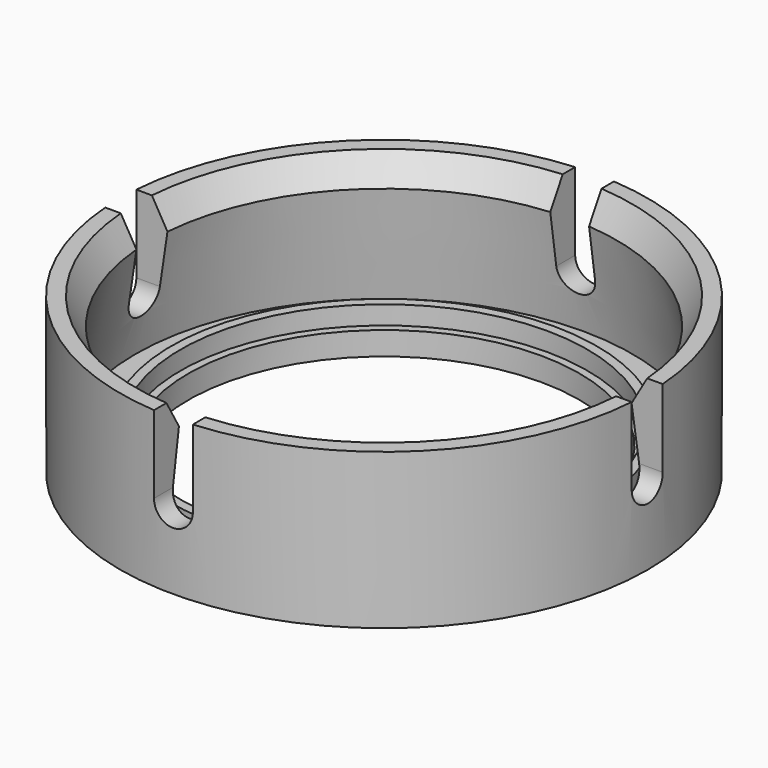
from build123d import *

# Parameters (mm, degrees)
SKETCH_R           = 17
PAD_DEPTH          = 10
POCKET_DEPTH       = 115.225233
POCKET_DEPTH_BACK  = 115.225233
POLARPATTERN_COUNT = 2
POLARPATTERN_ANGLE = 90


with BuildPart() as part:
    # Sketch → Pad (new body)
    with BuildSketch(Plane.XY):
        Circle(SKETCH_R)
    extrude(amount=PAD_DEPTH)

    # Sketch001 → Groove (revolve, cut)
    with BuildSketch(Plane.YZ):
        Polygon((0, 0), (0, 10), (16, 10), (15, 8.267949), (16, 1.5), (13.7, 1.5), (13.7, 2.7), (13.1, 2.7), (13.1, 1.5), (12.6, 1.5), (12.6, 0), align=None)
    revolve(axis=Axis((0, 0, 0), (0, 0, 1)), mode=Mode.SUBTRACT)

    # Sketch002 → Pocket (cut, two sides)
    with BuildSketch(Plane.XZ) as pocket_sk:
        with BuildLine():
            Line((-1.25, 10), (1.25, 10))
            Line((1.25, 10), (1.25, 5))
            ThreePointArc((-1.25, 5), (0, 3.75), (1.25, 5))
            Line((-1.25, 5), (-1.25, 10))
        make_face()
    pocket = extrude(amount=-POCKET_DEPTH, mode=Mode.SUBTRACT) + extrude(pocket_sk.sketch, amount=POCKET_DEPTH_BACK, mode=Mode.SUBTRACT)

    # PolarPattern: Pocket ×2 about axis
    polarpattern_axis = Axis((0, 0, 0), (0, 0, 1))
    for i in range(1, POLARPATTERN_COUNT):
        add(pocket.rotate(polarpattern_axis, i * POLARPATTERN_ANGLE / (POLARPATTERN_COUNT - 1)), mode=Mode.SUBTRACT)


solid = part.part
